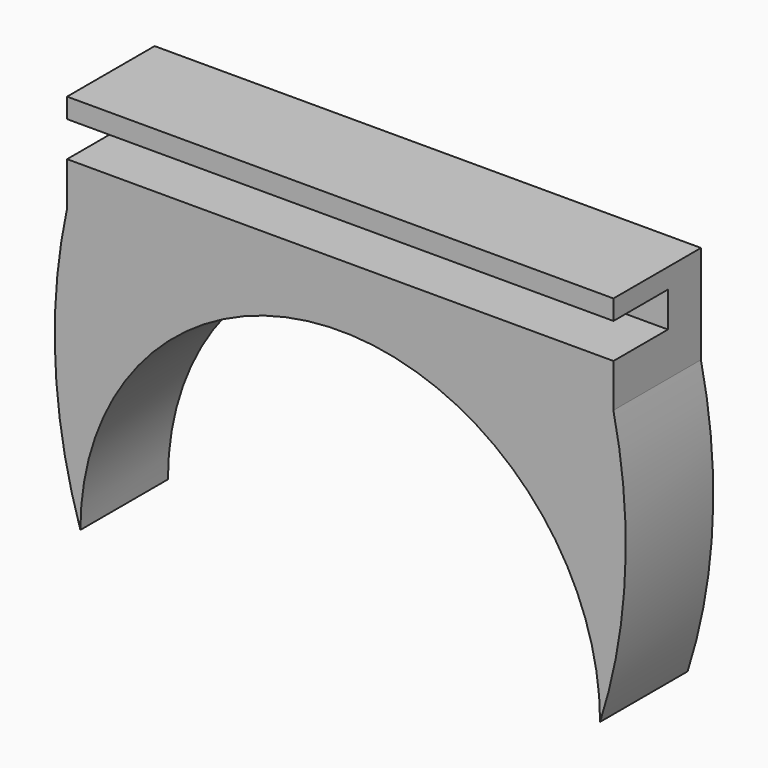
from build123d import *

# Parameters (mm, degrees)
F1_DEPTH = 12.7
F2_W     = 7.906222
F2_H     = 4.0894
F3_DEPTH = 64.844886


with BuildPart() as f1:
    # F0 (on Front) → F1 (new body)
    with BuildSketch(Plane.XZ):
        with BuildLine():
            ThreePointArc((-30.1625, -19.05), (0, 11.1125), (30.1625, -19.05))
            ThreePointArc((30.1625, -19.05), (33.066404, -2.978929), (31.706428, 13.295667))
            Line((31.706428, 13.295667), (-31.706428, 13.295667))
            ThreePointArc((-31.706428, 13.295667), (-33.066404, -2.978929), (-30.1625, -19.05))
        make_face()
        Polygon((-31.706428, 13.295667), (31.706428, 13.295667), (31.714428, 13.295667), (31.714428, 24.728669), (-31.706428, 24.728669), align=None)
    extrude(amount=F1_DEPTH)

    # F2 (on face) → F3 (cut, through all)
    with BuildSketch(Plane(origin=(-31.706428, 0, 0), x_dir=(0, -1, 0), z_dir=(-1, 0, 0))):
        with Locations((8.746889, 20.382276)):
            Rectangle(F2_W, F2_H)
    extrude(amount=-F3_DEPTH, mode=Mode.SUBTRACT)


solid = f1.part
